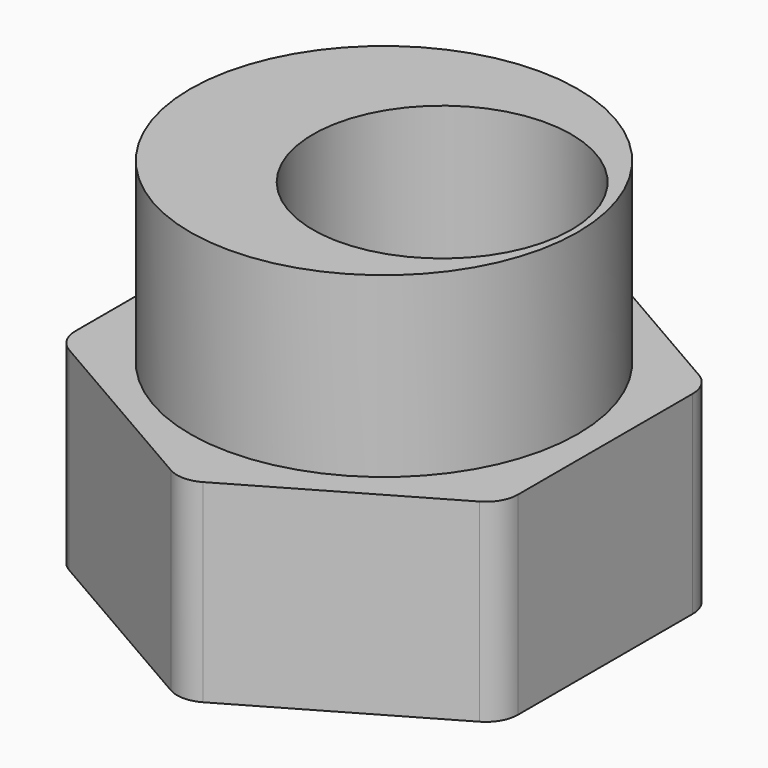
from build123d import *

# Parameters (mm, degrees)
F1_DEPTH = 6
F2_R     = 6
F3_DEPTH = 5.5
F4_R     = 4
F5_DEPTH = 11.501
F6_R     = 1


with BuildPart() as f1:
    # F0 (on Top) → F1 (new body)
    with BuildSketch(Plane.XY):
        Polygon((6.85, -3.954849), (6.85, 3.954849), (0, 7.909699), (-6.85, 3.954849), (-6.85, -3.954849), (0, -7.909699), align=None)
    extrude(amount=F1_DEPTH)

    # F2 (on face) → F3 (join)
    with BuildSketch(Plane.XY.offset(6)):
        Circle(F2_R)
    extrude(amount=F3_DEPTH)

    # F4 (on face) → F5 (cut, through all)
    with BuildSketch(Plane.XY.offset(11.5)):
        with Locations((1.8, 0)):
            Circle(F4_R)
    extrude(amount=-F5_DEPTH, mode=Mode.SUBTRACT)

    # F6
    f6_edges = [f1.edges().sort_by_distance(p)[0] for p in [
        (6.85, -3.954849, 3),
        (0, -7.909699, 3),
        (6.85, 3.954849, 3),
        (-6.85, -3.954849, 3),
        (-6.85, 3.954849, 3),
        (0, 7.909699, 3),
    ]]
    fillet(f6_edges, radius=F6_R)


solid = f1.part
